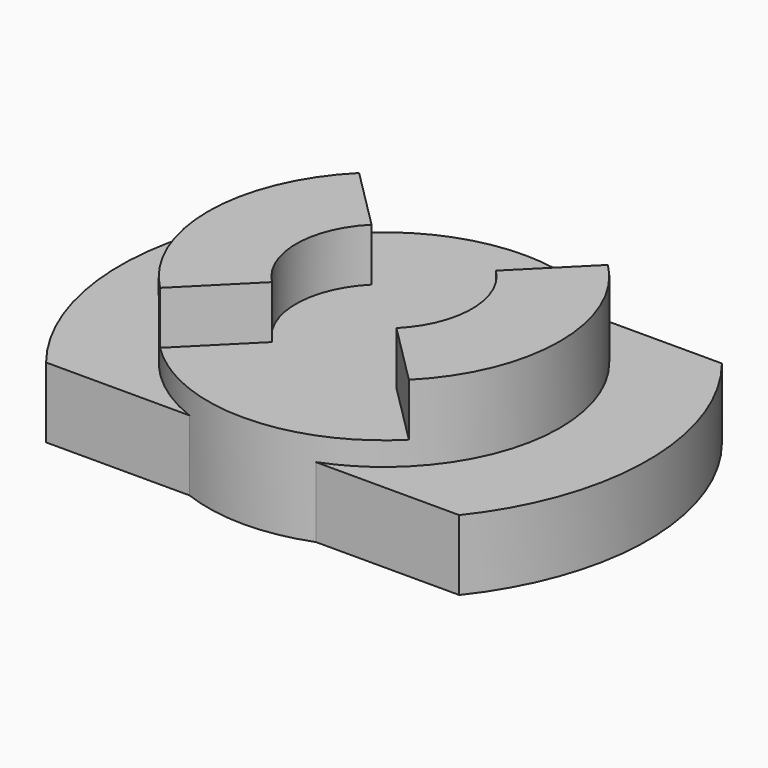
from build123d import *

# Parameters (mm, degrees)
F1_DEPTH = 12
F2_DEPTH = 16
F3_DEPTH = 25


with BuildPart() as f1:
    # F0 (on Top) → F1 (new body)
    with BuildSketch(Plane.XY):
        with BuildLine():
            ThreePointArc((-21.2132034356, 21.2132034356), (-16.3478362021, 25.1544877012), (-10.7703296143, 28))
            Line((-10.7703296143, 28), (-35.2278299076, 28))
            ThreePointArc((-35.2278299076, 28), (-45, 0), (-35.2278299076, -28))
            Line((-35.2278299076, -28), (-10.7703296143, -28))
            ThreePointArc((-10.7703296143, -28), (-16.3478362021, -25.1544877012), (-21.2132034356, -21.2132034356))
            ThreePointArc((-21.2132034356, -21.2132034356), (-30, 0), (-21.2132034356, 21.2132034356))
        make_face()
    extrude(amount=F1_DEPTH)



with BuildPart() as f1b:
    # F0 (on Top) → F1, piece 2 (new body)
    with BuildSketch(Plane.XY):
        with BuildLine():
            ThreePointArc((21.2132034356, 21.2132034356), (27.7163859753, 11.480502971), (30, 0))
            ThreePointArc((30, 0), (27.7163859753, -11.480502971), (21.2132034356, -21.2132034356))
            ThreePointArc((21.2132034356, -21.2132034356), (16.3478362021, -25.1544877012), (10.7703296143, -28))
            Line((10.7703296143, -28), (35.2278299076, -28))
            ThreePointArc((35.2278299076, -28), (45, 0), (35.2278299076, 28))
            Line((35.2278299076, 28), (10.7703296143, 28))
            ThreePointArc((10.7703296143, 28), (16.3478362021, 25.1544877012), (21.2132034356, 21.2132034356))
        make_face()
    extrude(amount=F1_DEPTH)


with BuildPart() as f1_1:
    add(f1.part)

    add(f1b.part)  # F2 merges F1b
    # F0 (on Top) → F2 (join)
    with BuildSketch(Plane.XY):
        with BuildLine():
            Line((10.6066017178, 10.6066017178), (21.2132034356, 21.2132034356))
            ThreePointArc((21.2132034356, 21.2132034356), (16.3478362021, 25.1544877012), (10.7703296143, 28))
            ThreePointArc((10.7703296143, 28), (0, 30), (-10.7703296143, 28))
            ThreePointArc((-10.7703296143, 28), (-16.3478362021, 25.1544877012), (-21.2132034356, 21.2132034356))
            Line((-21.2132034356, 21.2132034356), (-10.6066017178, 10.6066017178))
            ThreePointArc((-10.6066017178, 10.6066017178), (-15, 0), (-10.6066017178, -10.6066017178))
            Line((-10.6066017178, -10.6066017178), (-21.2132034356, -21.2132034356))
            ThreePointArc((-21.2132034356, -21.2132034356), (-16.3478362021, -25.1544877012), (-10.7703296143, -28))
            ThreePointArc((-10.7703296143, -28), (0, -30), (10.7703296143, -28))
            ThreePointArc((10.7703296143, -28), (16.3478362021, -25.1544877012), (21.2132034356, -21.2132034356))
            Line((21.2132034356, -21.2132034356), (10.6066017178, -10.6066017178))
            ThreePointArc((10.6066017178, -10.6066017178), (15, 0), (10.6066017178, 10.6066017178))
        make_face()
    extrude(amount=F2_DEPTH)

    # F0 (on Top) → F3 (join)
    with BuildSketch(Plane.XY):
        with BuildLine():
            ThreePointArc((21.2132034356, -21.2132034356), (27.7163859753, -11.480502971), (30, 0))
            ThreePointArc((30, 0), (27.7163859753, 11.480502971), (21.2132034356, 21.2132034356))
            Line((21.2132034356, 21.2132034356), (10.6066017178, 10.6066017178))
            ThreePointArc((10.6066017178, 10.6066017178), (15, 0), (10.6066017178, -10.6066017178))
            Line((10.6066017178, -10.6066017178), (21.2132034356, -21.2132034356))
        make_face()
        with BuildLine():
            Line((-10.6066017178, 10.6066017178), (-21.2132034356, 21.2132034356))
            ThreePointArc((-21.2132034356, 21.2132034356), (-30, 0), (-21.2132034356, -21.2132034356))
            Line((-21.2132034356, -21.2132034356), (-10.6066017178, -10.6066017178))
            ThreePointArc((-10.6066017178, -10.6066017178), (-15, 0), (-10.6066017178, 10.6066017178))
        make_face()
    extrude(amount=F3_DEPTH)


solid = f1_1.part
